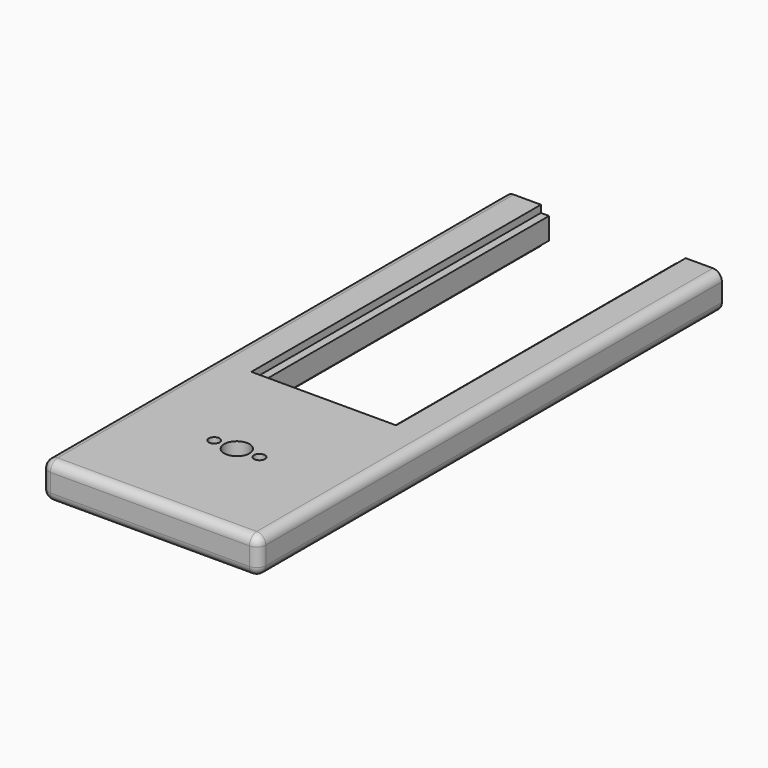
from build123d import *

# Parameters (mm, degrees)
F0_R     = 3
F0_R_2   = 7
F1_DEPTH = 10
F2_W     = 200
F2_H     = 12
F3_DEPTH = 4.5
F4_W     = 200
F4_H     = 12
F5_DEPTH = 5
F6_R     = 5
F7_R     = 5
F8_R     = 5
F9_R     = 5
F10_R    = 5


with BuildPart() as f1:
    # F0 (on Top) → F1 (new body, symmetric)
    with BuildSketch(Plane.XY):
        Polygon((-40, 199.513814), (-60, 199.513814), (-60, -120.486186), (60, -120.486186), (60, 199.513814), (40, 199.513814), (40, -0.486186), (-40, -0.486186), align=None)
        with Locations((-12.5, -60.486186)):
            Circle(F0_R, mode=Mode.SUBTRACT)
        with Locations((0, -60.486186)):
            Circle(F0_R_2, mode=Mode.SUBTRACT)
        with Locations((12.5, -60.486186)):
            Circle(F0_R, mode=Mode.SUBTRACT)
    extrude(amount=F1_DEPTH, both=True)

    # F2 (on face) → F3 (join)
    with BuildSketch(Plane.YZ.offset(-40)):
        with Locations((99.513814, 0)):
            Rectangle(F2_W, F2_H)
    extrude(amount=F3_DEPTH)

    # F4 (on face) → F5 (join)
    with BuildSketch(Plane(origin=(40, 0, 0), x_dir=(0, -1, 0), z_dir=(-1, 0, 0))):
        with Locations((-99.513814, 0)):
            Rectangle(F4_W, F4_H)
    extrude(amount=F5_DEPTH)

    # F6
    f6_edges = [f1.edges().sort_by_distance(p)[0] for p in [
        (-60, 39.513814, 10),
    ]]
    fillet(f6_edges, radius=F6_R)

    # F7
    f7_edges = [f1.edges().sort_by_distance(p)[0] for p in [
        (-60, 39.513814, -10),
    ]]
    fillet(f7_edges, radius=F7_R)

    # F8
    f8_edges = [f1.edges().sort_by_distance(p)[0] for p in [
        (60, 39.513814, -10),
    ]]
    fillet(f8_edges, radius=F8_R)

    # F9
    f9_edges = [f1.edges().sort_by_distance(p)[0] for p in [
        (60, 39.513814, 10),
    ]]
    fillet(f9_edges, radius=F9_R)

    # F10
    f10_edges = [f1.edges().sort_by_distance(p)[0] for p in [
        (0, -120.486186, 10),
    ]]
    fillet(f10_edges, radius=F10_R)


solid = f1.part
